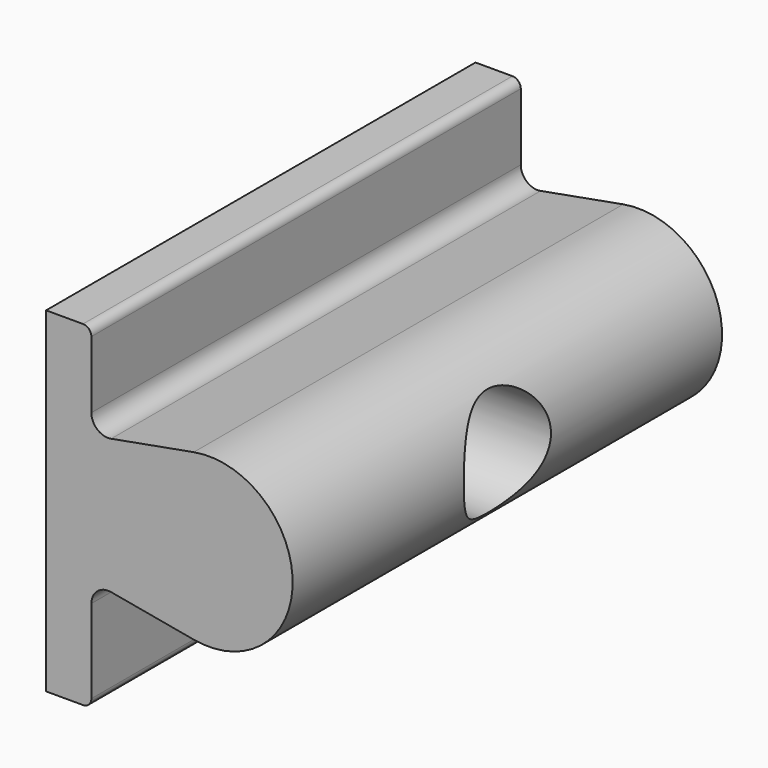
from build123d import *

# Parameters (mm, degrees)
PAD102_DEPTH      = 16
SKETCH199_R       = 1.75
POCKET_DEPTH      = 9.701
POCKET_DEPTH_BACK = 5.001
SKETCH200_R       = 3.25
POCKET073_DEPTH   = 10.001


with BuildPart() as part:
    # Sketch198 → Pad102 (new body, symmetric)
    with BuildSketch(Plane.XZ):
        with BuildLine():
            ThreePointArc((-7.5, -30.5), (-7.146447, -30.353554), (-7, -30))
            Line((-7, -30), (-7, -25.010349))
            ThreePointArc((-7, -25.010349), (-6.640965, -24.242779), (-5.821673, -24.026377))
            Line((-5.821673, -24.026377), (-0.891634, -24.919857))
            ThreePointArc((-0.891634, -24.919857), (5, -19.998107), (-0.89536, -15.08082))
            Line((-0.89536, -15.08082), (-5.820928, -15.977343))
            ThreePointArc((-5.820928, -15.977343), (-6.640675, -15.76132), (-7, -14.993507))
            Line((-7, -14.993507), (-7, -11))
            ThreePointArc((-7, -11), (-7.146447, -10.646447), (-7.5, -10.5))
            Line((-7.5, -10.5), (-9.7, -10.5))
            Line((-9.7, -10.5), (-9.7, -30.5))
            Line((-9.7, -30.5), (-7.5, -30.5))
        make_face()
    extrude(amount=PAD102_DEPTH, both=True)

    # Sketch199 → Pocket (cut, two sides)
    with BuildSketch(Plane.YZ) as pocket_sk:
        with Locations((0, -20)):
            Circle(SKETCH199_R)
    extrude(amount=-POCKET_DEPTH, mode=Mode.SUBTRACT)
    extrude(pocket_sk.sketch, amount=POCKET_DEPTH_BACK, mode=Mode.SUBTRACT)

    # Sketch200 → Pocket073 (cut, through all)
    with BuildSketch(Plane.YZ.offset(-5)):
        with Locations((0, -20)):
            Circle(SKETCH200_R)
    extrude(amount=POCKET073_DEPTH, mode=Mode.SUBTRACT)


solid = part.part
